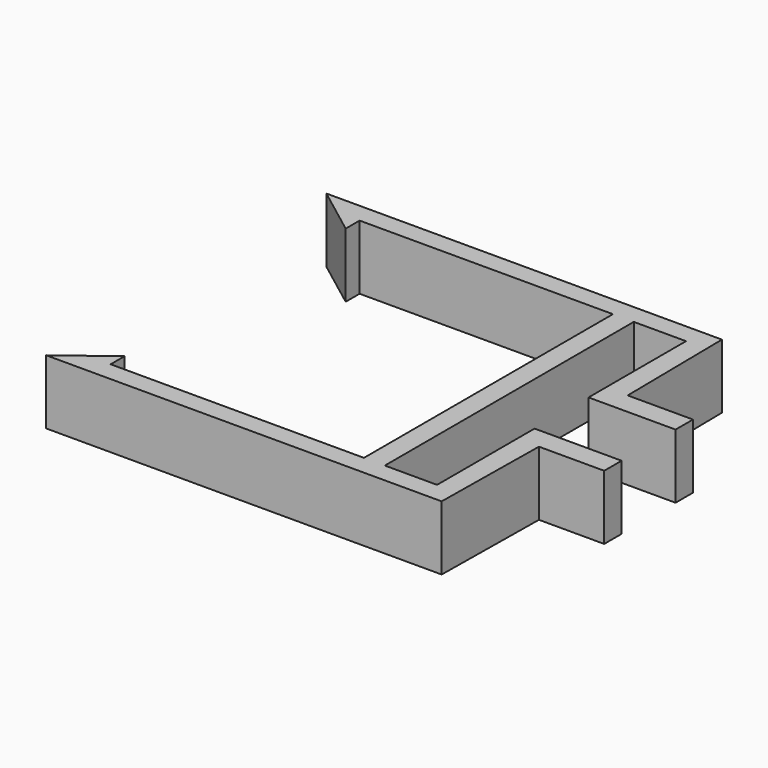
from build123d import *

# Parameters (mm, degrees)
F0_W     = 2.4
F0_H     = 35.75
F1_DEPTH = 7.4


with BuildPart() as f1:
    # F0 (on Top) → F1 (new body)
    with BuildSketch(Plane.XY):
        Polygon((1.2, -17.875), (-1.2, -17.875), (-30.3, -17.875), (-30.3, -20.125), (9.525092, -20.125), (9.7, -6.375), (17.2, -6.375), (17.2, -3.875), (7.2, -3.875), (7.2, -15.330116), (7.2, -17.875), (4.2, -17.875), align=None)
        Rectangle(F0_W, F0_H)
        Polygon((-30.3, 17.875), (-1.2, 17.875), (1.2, 17.875), (4.2, 17.875), (7.2, 17.875), (7.2, 15.330116), (7.2, 3.875), (17.2, 3.875), (17.2, 6.375), (9.7, 6.375), (9.525092, 20.125), (-30.3, 20.125), align=None)
        Polygon((-30.3, 15.875), (-30.3, 17.875), (-30.3, 20.125), (-35.9184, 20.125), align=None)
        Polygon((-30.3, -20.125), (-30.3, -17.875), (-30.3, -15.875), (-35.9184, -20.125), align=None)
    extrude(amount=F1_DEPTH)


solid = f1.part
